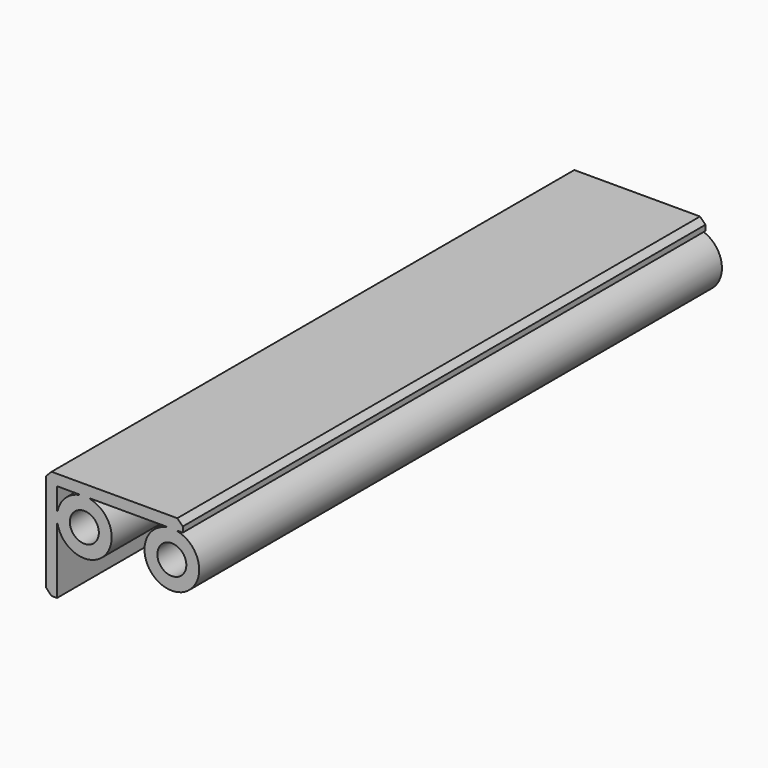
from build123d import *

# Parameters (mm, degrees)
CYLINDER071_R         = 2.65
CYLINDER071_DEPTH     = 119.5
CYLINDER072_R         = 2.65
CYLINDER072_DEPTH     = 119.5
CYLINDER073_R         = 5
CYLINDER073_DEPTH     = 119.5
BOX062_W              = 2
BOX062_H              = 119.5
BOX062_DEPTH          = 2
BOX061_W              = 2
BOX061_H              = 119.5
BOX061_DEPTH          = 2
BOX060_W              = 2
BOX060_H              = 119.5
BOX060_DEPTH          = 2
BOX059_W              = 25
BOX059_H              = 119.5
BOX059_DEPTH          = 2
BOX058_W              = 2
BOX058_H              = 119.5
BOX058_DEPTH          = 20
CHAMFER006057003_SIZE = 1
CYLINDER074_R         = 5
CYLINDER074_DEPTH     = 119.5


with BuildPart() as cylinder071:
    # Cylinder071 → Cylinder071 (new body)
    with BuildSketch(Plane(origin=(-8, -15, 23), x_dir=(1, 0, 0), z_dir=(0, -1, 0))):
        Circle(CYLINDER071_R)
    extrude(amount=CYLINDER071_DEPTH)


with BuildPart() as fusion020006007003002009018004_body:
    # Cylinder072 → Cylinder072 (new body)
    with BuildSketch(Plane(origin=(8, -15, 23), x_dir=(1, 0, 0), z_dir=(0, -1, 0))):
        Circle(CYLINDER072_R)
    extrude(amount=CYLINDER072_DEPTH)

    # Fusion020006007003002009018004004020010005017: union Cylinder071
    add(cylinder071.part)


with BuildPart() as cylinder073:
    # Cylinder073 → Cylinder073 (new body)
    with BuildSketch(Plane(origin=(-8, -15, 23), x_dir=(1, 0, 0), z_dir=(0, -1, 0))):
        Circle(CYLINDER073_R)
    extrude(amount=CYLINDER073_DEPTH)


with BuildPart() as cube062:
    # Box062 → Box062 (new body)
    with BuildSketch(Plane(origin=(7, -134.5, 27), x_dir=(1, 0, 0), z_dir=(0, 0, 1))):
        with Locations((1, 59.75)):
            Rectangle(BOX062_W, BOX062_H)
    extrude(amount=BOX062_DEPTH)


with BuildPart() as cube061:
    # Box061 → Box061 (new body)
    with BuildSketch(Plane(origin=(-9, -134.5, 27), x_dir=(1, 0, 0), z_dir=(0, 0, 1))):
        with Locations((1, 59.75)):
            Rectangle(BOX061_W, BOX061_H)
    extrude(amount=BOX061_DEPTH)


with BuildPart() as cube060:
    # Box060 → Box060 (new body)
    with BuildSketch(Plane(origin=(-14, -134.5, 22), x_dir=(1, 0, 0), z_dir=(0, 0, 1))):
        with Locations((1, 59.75)):
            Rectangle(BOX060_W, BOX060_H)
    extrude(amount=BOX060_DEPTH)


with BuildPart() as cube059:
    # Box059 → Box059 (new body)
    with BuildSketch(Plane(origin=(-15, -134.5, 28), x_dir=(1, 0, 0), z_dir=(0, 0, 1))):
        with Locations((12.5, 59.75)):
            Rectangle(BOX059_W, BOX059_H)
    extrude(amount=BOX059_DEPTH)


with BuildPart() as chamfer006057003:
    # Box058 → Box058 (new body)
    with BuildSketch(Plane(origin=(-15, -134.5, 10), x_dir=(1, 0, 0), z_dir=(0, 0, 1))):
        with Locations((1, 59.75)):
            Rectangle(BOX058_W, BOX058_H)
    extrude(amount=BOX058_DEPTH)

    # Fusion020006007003002009018004004020010005015: union Cube059
    add(cube059.part)

    # Chamfer006057003
    chamfer006057003_edges = [chamfer006057003.edges().sort_by_distance(p)[0] for p in [
        (-15, -74.75, 10),
        (-15, -74.75, 30),
        (10, -74.75, 30),
    ]]
    chamfer(chamfer006057003_edges, length=CHAMFER006057003_SIZE)


with BuildPart() as top_side_120mm_wall:
    # Cylinder074 → Cylinder074 (new body)
    with BuildSketch(Plane(origin=(8, -15, 23), x_dir=(1, 0, 0), z_dir=(0, -1, 0))):
        Circle(CYLINDER074_R)
    extrude(amount=CYLINDER074_DEPTH)

    # Fusion020006007003002009018004004020010005016: union Cylinder073, Cube062, Cube061, Cube060, Chamfer006057003
    add(cylinder073.part)
    add(cube062.part)
    add(cube061.part)
    add(cube060.part)
    add(chamfer006057003.part)

    # Cut019003010004002005007: cut Fusion020006007003002009018004 body
    add(fusion020006007003002009018004_body.part, mode=Mode.SUBTRACT)


solid = top_side_120mm_wall.part
